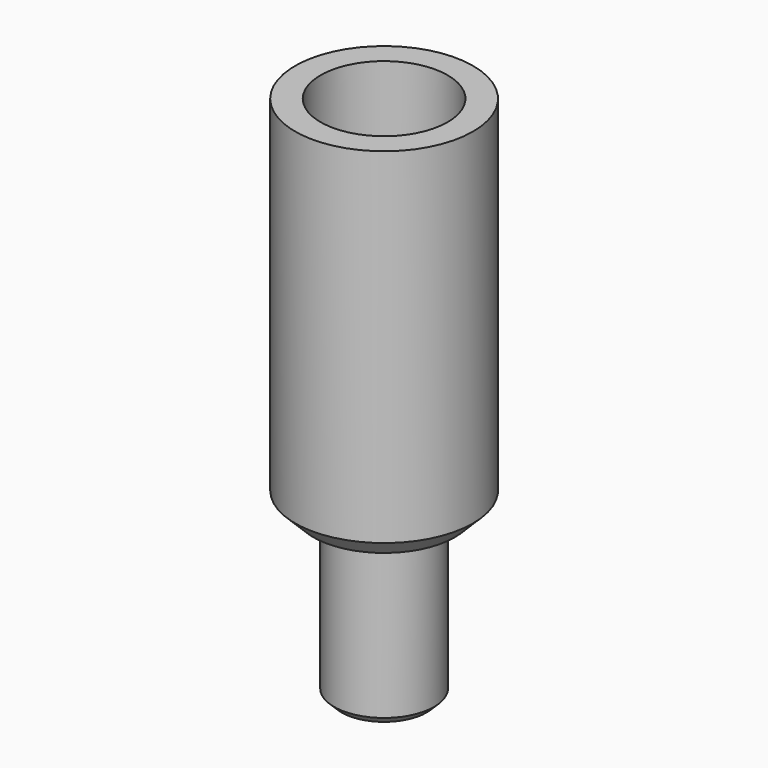
from build123d import *

# Parameters (mm, degrees)
F0_R     = 2.75
F0_R_2   = 1.5
F1_DEPTH = 9
F0_R_3   = 3.5
F2_DEPTH = 1
F0_R_4   = 4.9
F3_DEPTH = 20
F4_SIZE  = 1
F5_SIZE  = 0.6
F6_SIZE  = 0.4


with BuildPart() as f1:
    # F0 (on Top) → F1 (new body)
    with BuildSketch(Plane.XY):
        Circle(F0_R)
        Circle(F0_R_2, mode=Mode.SUBTRACT)
    extrude(amount=-F1_DEPTH)

    # F0 (on Top) → F2 (join)
    with BuildSketch(Plane.XY):
        Circle(F0_R_3)
        Circle(F0_R, mode=Mode.SUBTRACT)
        Circle(F0_R)
        Circle(F0_R_2, mode=Mode.SUBTRACT)
    extrude(amount=F2_DEPTH)

    # F0 (on Top) → F3 (join)
    with BuildSketch(Plane.XY):
        Circle(F0_R_4)
        Circle(F0_R_3, mode=Mode.SUBTRACT)
    extrude(amount=F3_DEPTH)

    # F4
    f4_edges = [f1.edges().sort_by_distance(p)[0] for p in [
        (-4.9, 0, 0),
    ]]
    chamfer(f4_edges, length=F4_SIZE)

    # F5
    f5_edges = [f1.edges().sort_by_distance(p)[0] for p in [
        (-1.5, 0, 1),
    ]]
    chamfer(f5_edges, length=F5_SIZE)

    # F6
    f6_edges = [f1.edges().sort_by_distance(p)[0] for p in [
        (-2.75, 0, -9),
    ]]
    chamfer(f6_edges, length=F6_SIZE)


solid = f1.part
